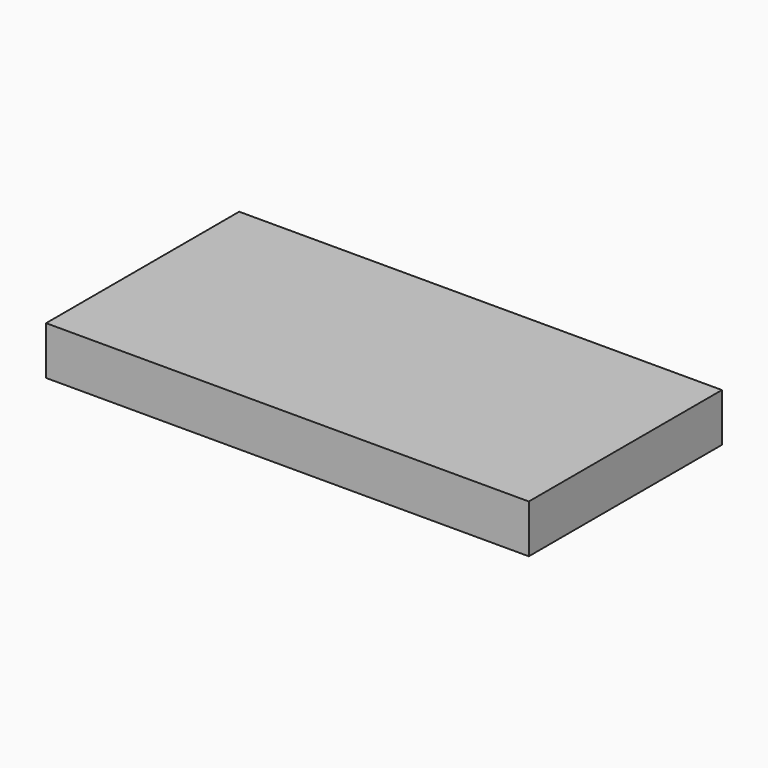
from build123d import *

# Parameters (mm, degrees)
SKETCH_W      = 40
SKETCH_H      = 20
EXTRUDE_DEPTH = 4


with BuildPart() as part:
    # Sketch → Extrude (new body)
    with BuildSketch(Plane.XY):
        with Locations((20, 10)):
            Rectangle(SKETCH_W, SKETCH_H)
    extrude(amount=EXTRUDE_DEPTH)


solid = part.part
